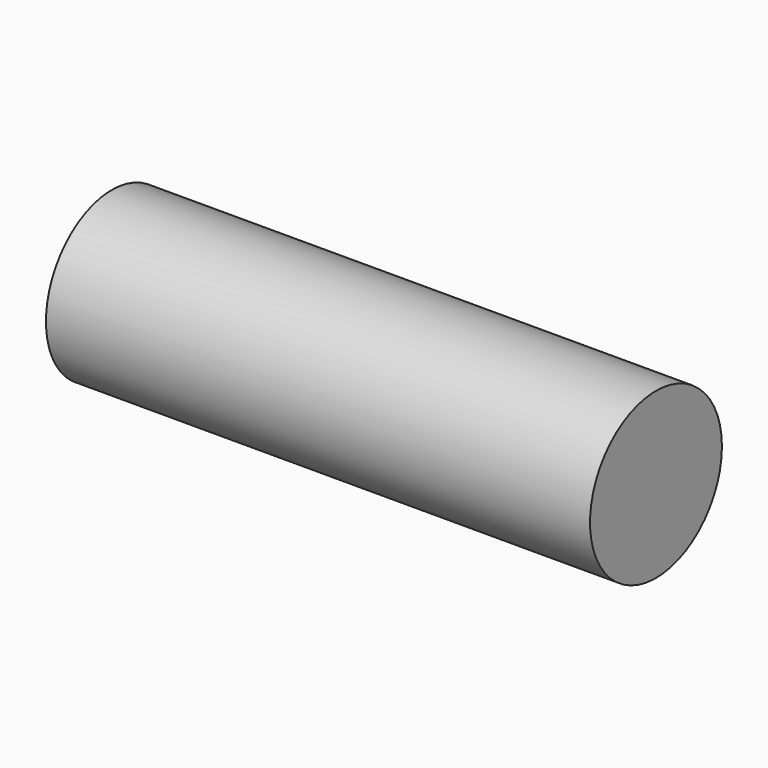
from build123d import *

# Parameters (mm, degrees)
F0_R     = 12.7
F1_DEPTH = 83.82
F2_SCALE = 0.2


with BuildPart() as f1:
    # F0 (on Right) → F1 (new body)
    with BuildSketch(Plane.YZ):
        Circle(F0_R)
        Circle(F0_R)
    extrude(amount=F1_DEPTH)


with BuildPart() as f1_1:
    # F2: moved
    add(f1.part.scale(F2_SCALE))


solid = f1_1.part
